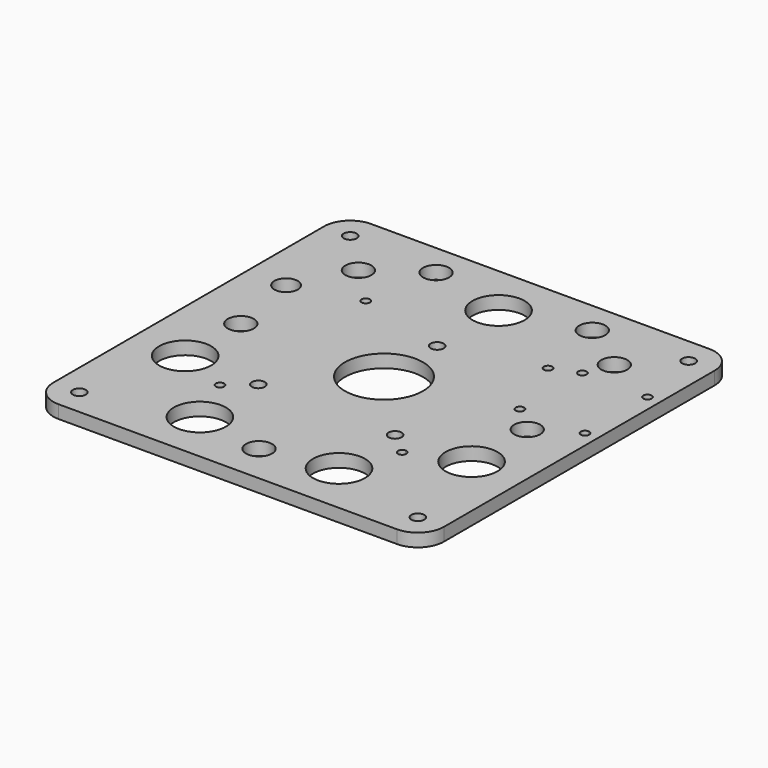
from build123d import *

# Parameters (mm, degrees)
F0_W      = 190.5
F0_H      = 190.5
F0_R      = 3.175
F1_DEPTH  = 6.35
F3_DEPTH  = 6.351
F5_DEPTH  = 6.351
F6_R      = 3.175
F6_R_2    = 19.05
F7_DEPTH  = 6.351
F8_R      = 12.7
F9_R      = 6.35
F9_R_2    = 12.7
F10_DEPTH = 6.351
F11_R     = 12.7
F12_DEPTH = 6.351
F13_R     = 5.715
F13_R_2   = 6.35
F14_DEPTH = 6.351


with BuildPart() as f1:
    # F0 (on Top) → F1 (new body)
    with BuildSketch(Plane.XY):
        Rectangle(F0_W, F0_H)
        with Locations((-82.55, -82.55)):
            Circle(F0_R, mode=Mode.SUBTRACT)
        with Locations((82.55, -82.55)):
            Circle(F0_R, mode=Mode.SUBTRACT)
        with Locations((-82.55, 82.55)):
            Circle(F0_R, mode=Mode.SUBTRACT)
        with Locations((82.55, 82.55)):
            Circle(F0_R, mode=Mode.SUBTRACT)
    extrude(amount=F1_DEPTH)

    # F2 (on face) → F3 (cut, through all)
    with BuildSketch(Plane.XY.offset(6.35)):
        with BuildLine():
            Line((57.15, 47.4726), (57.15, 49.53))
            Line((57.15, 49.53), (59.2074, 49.53))
            ThreePointArc((59.2074, 49.53), (55.695199, 50.984801), (57.15, 47.4726))
        make_face()
        with BuildLine():
            Line((59.2074, 49.53), (57.15, 49.53))
            Line((57.15, 49.53), (57.15, 47.4726))
            ThreePointArc((57.15, 47.4726), (58.604801, 48.075199), (59.2074, 49.53))
        make_face()
        with BuildLine():
            Line((88.9, 49.53), (86.8426, 49.53))
            ThreePointArc((86.8426, 49.53), (87.445199, 48.075199), (88.9, 47.4726))
            Line((88.9, 47.4726), (88.9, 49.53))
        make_face()
        with BuildLine():
            ThreePointArc((90.9574, 49.53), (88.9, 51.5874), (86.8426, 49.53))
            Line((86.8426, 49.53), (88.9, 49.53))
            Line((88.9, 49.53), (88.9, 47.4726))
            ThreePointArc((88.9, 47.4726), (90.354801, 48.075199), (90.9574, 49.53))
        make_face()
        with BuildLine():
            ThreePointArc((59.2074, 11.43), (58.604801, 12.884801), (57.15, 13.4874))
            Line((57.15, 13.4874), (57.15, 11.43))
            Line((57.15, 11.43), (59.2074, 11.43))
        make_face()
        with BuildLine():
            Line((57.15, 11.43), (57.15, 13.4874))
            ThreePointArc((57.15, 13.4874), (55.695199, 9.975199), (59.2074, 11.43))
            Line((59.2074, 11.43), (57.15, 11.43))
        make_face()
        with BuildLine():
            Line((88.9, 11.43), (88.9, 13.4874))
            ThreePointArc((88.9, 13.4874), (87.445199, 12.884801), (86.8426, 11.43))
            Line((86.8426, 11.43), (88.9, 11.43))
        make_face()
        with BuildLine():
            ThreePointArc((90.9574, 11.43), (90.354801, 12.884801), (88.9, 13.4874))
            Line((88.9, 13.4874), (88.9, 11.43))
            Line((88.9, 11.43), (86.8426, 11.43))
            ThreePointArc((86.8426, 11.43), (88.9, 9.3726), (90.9574, 11.43))
        make_face()
    extrude(amount=-F3_DEPTH, mode=Mode.SUBTRACT)

    # F4 (on face) → F5 (cut, through all)
    with BuildSketch(Plane.XY.offset(6.35)):
        with BuildLine():
            Line((-44.45, -42.3926), (-44.45, -44.45))
            Line((-44.45, -44.45), (-42.3926, -44.45))
            ThreePointArc((-42.3926, -44.45), (-42.995199, -42.995199), (-44.45, -42.3926))
        make_face()
        with BuildLine():
            Line((-42.3926, -44.45), (-44.45, -44.45))
            Line((-44.45, -44.45), (-44.45, -42.3926))
            ThreePointArc((-44.45, -42.3926), (-45.904801, -45.904801), (-42.3926, -44.45))
        make_face()
        with BuildLine():
            ThreePointArc((44.45, -42.3926), (42.995199, -42.995199), (42.3926, -44.45))
            Line((42.3926, -44.45), (44.45, -44.45))
            Line((44.45, -44.45), (44.45, -42.3926))
        make_face()
        with BuildLine():
            Line((44.45, -44.45), (42.3926, -44.45))
            ThreePointArc((42.3926, -44.45), (44.45, -46.5074), (46.5074, -44.45))
            ThreePointArc((46.5074, -44.45), (45.904801, -42.995199), (44.45, -42.3926))
            Line((44.45, -42.3926), (44.45, -44.45))
        make_face()
        with BuildLine():
            ThreePointArc((-42.3926, 44.45), (-45.904801, 45.904801), (-44.45, 42.3926))
            Line((-44.45, 42.3926), (-44.45, 44.45))
            Line((-44.45, 44.45), (-42.3926, 44.45))
        make_face()
        with BuildLine():
            Line((-44.45, 44.45), (-44.45, 42.3926))
            ThreePointArc((-44.45, 42.3926), (-42.995199, 42.995199), (-42.3926, 44.45))
            Line((-42.3926, 44.45), (-44.45, 44.45))
        make_face()
        with BuildLine():
            ThreePointArc((42.3926, 44.45), (42.995199, 42.995199), (44.45, 42.3926))
            Line((44.45, 42.3926), (44.45, 44.45))
            Line((44.45, 44.45), (42.3926, 44.45))
        make_face()
        with BuildLine():
            Line((44.45, 44.45), (44.45, 42.3926))
            ThreePointArc((44.45, 42.3926), (45.904801, 42.995199), (46.5074, 44.45))
            ThreePointArc((46.5074, 44.45), (44.45, 46.5074), (42.3926, 44.45))
            Line((42.3926, 44.45), (44.45, 44.45))
        make_face()
    extrude(amount=-F5_DEPTH, mode=Mode.SUBTRACT)

    # F6 (on face) → F7 (cut, through all)
    with BuildSketch(Plane.XY.offset(6.35)):
        with Locations((-33.3375, -34.925)):
            Circle(F6_R)
        with Locations((33.3375, -34.925)):
            Circle(F6_R)
        with Locations((0, 32.385)):
            Circle(F6_R)
        Circle(F6_R_2)
    extrude(amount=-F7_DEPTH, mode=Mode.SUBTRACT)

    # F8
    f8_edges = [f1.edges().sort_by_distance(p)[0] for p in [
        (-95.25, 95.25, 3.175),
        (95.25, 95.25, 3.175),
        (95.25, -95.25, 3.175),
        (-95.25, -95.25, 3.175),
    ]]
    fillet(f8_edges, radius=F8_R)

    # F9 (on face) → F10 (cut, through all)
    with BuildSketch(Plane.XY.offset(6.35)):
        with Locations((62.410512, 62.410512)):
            Circle(F9_R)
        with Locations((0, 69.85)):
            Circle(F9_R_2)
        with Locations((-62.410512, 62.410512)):
            Circle(F9_R)
        with Locations((69.85, 0)):
            Circle(F9_R)
        with Locations((-69.85, 0)):
            Circle(F9_R)
    extrude(amount=-F10_DEPTH, mode=Mode.SUBTRACT)

    # F11 (on face) → F12 (cut, through all)
    with BuildSketch(Plane.XY.offset(6.35)):
        with Locations((-69.85, -33.928976)):
            Circle(F11_R)
        with Locations((-33.928976, -69.85)):
            Circle(F11_R)
        with Locations((69.85, -33.928976)):
            Circle(F11_R)
        with Locations((33.928976, -69.85)):
            Circle(F11_R)
    extrude(amount=-F12_DEPTH, mode=Mode.SUBTRACT)

    # F13 (on face) → F14 (cut, through all)
    with BuildSketch(Plane.XY.offset(6.35)):
        with Locations((-76.2, 35.56)):
            Circle(F13_R)
        with Locations((-38.1, 79.375)):
            Circle(F13_R_2)
        with Locations((38.1, 79.375)):
            Circle(F13_R_2)
        with Locations((0, -76.2)):
            Circle(F13_R_2)
    extrude(amount=-F14_DEPTH, mode=Mode.SUBTRACT)


solid = f1.part
